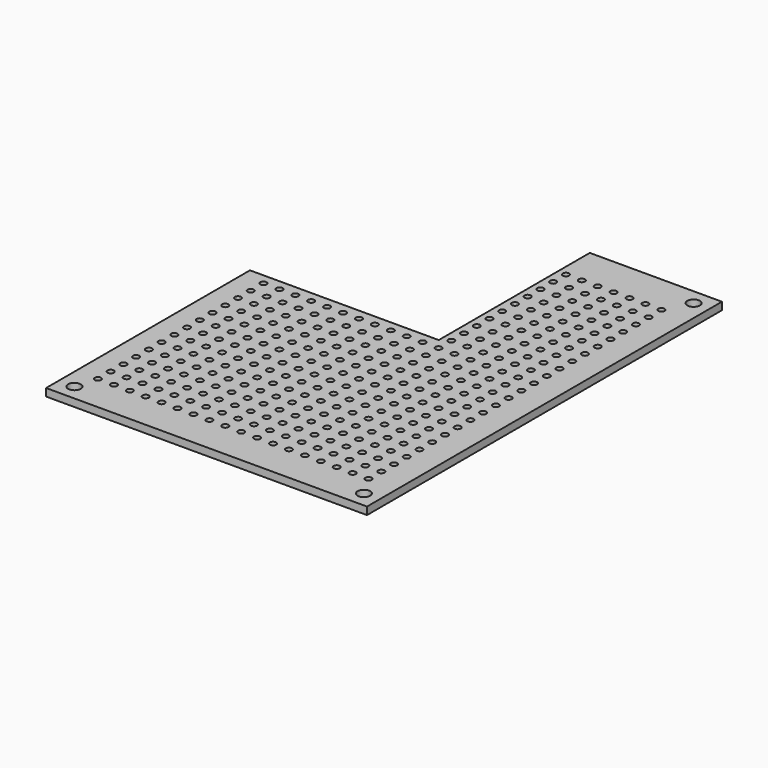
from build123d import *

# Parameters (mm, degrees)
F0_W     = 51
F0_H     = 70.5
F0_R     = 1
F1_DEPTH = 1.2
F2_R     = 0.5
F3_DEPTH = 25
F4_W     = 1.755817
F4_H     = 1.003323
F4_W_2   = 30
F4_H_2   = 30
F5_DEPTH = 5


with BuildPart() as f1:
    # F0 (on Top) → F1 (new body)
    with BuildSketch(Plane.XY):
        Rectangle(F0_W, F0_H)
        with Locations((-23, -32.75)):
            Circle(F0_R, mode=Mode.SUBTRACT)
        with Locations((23, -32.75)):
            Circle(F0_R, mode=Mode.SUBTRACT)
        with Locations((-23, 32.75)):
            Circle(F0_R, mode=Mode.SUBTRACT)
        with Locations((23, 32.75)):
            Circle(F0_R, mode=Mode.SUBTRACT)
    extrude(amount=F1_DEPTH)

    # F2 (on Top) → F3 (cut)
    with BuildSketch(Plane.XY):
        with Locations((-22, 28.85)):
            Circle(F2_R)
        with Locations((-19.470588, 28.85)):
            Circle(F2_R)
        with Locations((-16.941176, 28.85)):
            Circle(F2_R)
        with Locations((-14.411765, 28.85)):
            Circle(F2_R)
        with Locations((-11.882353, 28.85)):
            Circle(F2_R)
        with Locations((-9.352941, 28.85)):
            Circle(F2_R)
        with Locations((-6.823529, 28.85)):
            Circle(F2_R)
        with Locations((-4.294118, 28.85)):
            Circle(F2_R)
        with Locations((-1.764706, 28.85)):
            Circle(F2_R)
        with Locations((0.764706, 28.85)):
            Circle(F2_R)
        with Locations((3.294118, 28.85)):
            Circle(F2_R)
        with Locations((5.823529, 28.85)):
            Circle(F2_R)
        with Locations((8.352941, 28.85)):
            Circle(F2_R)
        with Locations((10.882353, 28.85)):
            Circle(F2_R)
        with Locations((13.411765, 28.85)):
            Circle(F2_R)
        with Locations((15.941176, 28.85)):
            Circle(F2_R)
        with Locations((18.470588, 28.85)):
            Circle(F2_R)
        with Locations((21, 28.85)):
            Circle(F2_R)
        with Locations((3.294112, 26.321)):
            Circle(F2_R)
        with Locations((5.823523, 26.321)):
            Circle(F2_R)
        with Locations((8.352935, 26.321)):
            Circle(F2_R)
        with Locations((18.470582, 26.321)):
            Circle(F2_R)
        with Locations((0.7647, 26.321)):
            Circle(F2_R)
        with Locations((10.882347, 26.321)):
            Circle(F2_R)
        with Locations((13.411759, 26.321)):
            Circle(F2_R)
        with Locations((15.941171, 26.321)):
            Circle(F2_R)
        with Locations((-16.941182, 26.321)):
            Circle(F2_R)
        with Locations((-14.411771, 26.321)):
            Circle(F2_R)
        with Locations((-11.882359, 26.321)):
            Circle(F2_R)
        with Locations((-9.352947, 26.321)):
            Circle(F2_R)
        with Locations((-6.823535, 26.321)):
            Circle(F2_R)
        with Locations((-4.294124, 26.321)):
            Circle(F2_R)
        with Locations((-1.764712, 26.321)):
            Circle(F2_R)
        with Locations((20.999994, 26.321)):
            Circle(F2_R)
        with Locations((-22.000006, 26.321)):
            Circle(F2_R)
        with Locations((-19.470594, 26.321)):
            Circle(F2_R)
        with Locations((3.294106, 23.792)):
            Circle(F2_R)
        with Locations((5.823517, 23.792)):
            Circle(F2_R)
        with Locations((8.352929, 23.792)):
            Circle(F2_R)
        with Locations((18.470576, 23.792)):
            Circle(F2_R)
        with Locations((0.764694, 23.792)):
            Circle(F2_R)
        with Locations((10.882341, 23.792)):
            Circle(F2_R)
        with Locations((13.411753, 23.792)):
            Circle(F2_R)
        with Locations((15.941165, 23.792)):
            Circle(F2_R)
        with Locations((-16.941188, 23.792)):
            Circle(F2_R)
        with Locations((-14.411777, 23.792)):
            Circle(F2_R)
        with Locations((-11.882365, 23.792)):
            Circle(F2_R)
        with Locations((-9.352953, 23.792)):
            Circle(F2_R)
        with Locations((-6.823541, 23.792)):
            Circle(F2_R)
        with Locations((-4.29413, 23.792)):
            Circle(F2_R)
        with Locations((-1.764718, 23.792)):
            Circle(F2_R)
        with Locations((20.999988, 23.792)):
            Circle(F2_R)
        with Locations((-22.000012, 23.792)):
            Circle(F2_R)
        with Locations((-19.4706, 23.792)):
            Circle(F2_R)
        with Locations((3.2941, 21.263)):
            Circle(F2_R)
        with Locations((5.823512, 21.263)):
            Circle(F2_R)
        with Locations((8.352923, 21.263)):
            Circle(F2_R)
        with Locations((18.47057, 21.263)):
            Circle(F2_R)
        with Locations((0.764688, 21.263)):
            Circle(F2_R)
        with Locations((10.882335, 21.263)):
            Circle(F2_R)
        with Locations((13.411747, 21.263)):
            Circle(F2_R)
        with Locations((15.941159, 21.263)):
            Circle(F2_R)
        with Locations((-16.941194, 21.263)):
            Circle(F2_R)
        with Locations((-14.411783, 21.263)):
            Circle(F2_R)
        with Locations((-11.882371, 21.263)):
            Circle(F2_R)
        with Locations((-9.352959, 21.263)):
            Circle(F2_R)
        with Locations((-6.823547, 21.263)):
            Circle(F2_R)
        with Locations((-4.294136, 21.263)):
            Circle(F2_R)
        with Locations((-1.764724, 21.263)):
            Circle(F2_R)
        with Locations((20.999982, 21.263)):
            Circle(F2_R)
        with Locations((-22.000018, 21.263)):
            Circle(F2_R)
        with Locations((-19.470606, 21.263)):
            Circle(F2_R)
        with Locations((3.294094, 18.734)):
            Circle(F2_R)
        with Locations((5.823506, 18.734)):
            Circle(F2_R)
        with Locations((8.352917, 18.734)):
            Circle(F2_R)
        with Locations((18.470564, 18.734)):
            Circle(F2_R)
        with Locations((0.764682, 18.734)):
            Circle(F2_R)
        with Locations((10.882329, 18.734)):
            Circle(F2_R)
        with Locations((13.411741, 18.734)):
            Circle(F2_R)
        with Locations((15.941153, 18.734)):
            Circle(F2_R)
        with Locations((-16.9412, 18.734)):
            Circle(F2_R)
        with Locations((-14.411789, 18.734)):
            Circle(F2_R)
        with Locations((-11.882377, 18.734)):
            Circle(F2_R)
        with Locations((-9.352965, 18.734)):
            Circle(F2_R)
        with Locations((-6.823553, 18.734)):
            Circle(F2_R)
        with Locations((-4.294142, 18.734)):
            Circle(F2_R)
        with Locations((-1.76473, 18.734)):
            Circle(F2_R)
        with Locations((20.999976, 18.734)):
            Circle(F2_R)
        with Locations((-22.000024, 18.734)):
            Circle(F2_R)
        with Locations((-19.470612, 18.734)):
            Circle(F2_R)
        with Locations((3.294088, 16.205)):
            Circle(F2_R)
        with Locations((5.8235, 16.205)):
            Circle(F2_R)
        with Locations((8.352911, 16.205)):
            Circle(F2_R)
        with Locations((18.470558, 16.205)):
            Circle(F2_R)
        with Locations((0.764676, 16.205)):
            Circle(F2_R)
        with Locations((10.882323, 16.205)):
            Circle(F2_R)
        with Locations((13.411735, 16.205)):
            Circle(F2_R)
        with Locations((15.941147, 16.205)):
            Circle(F2_R)
        with Locations((-16.941206, 16.205)):
            Circle(F2_R)
        with Locations((-14.411795, 16.205)):
            Circle(F2_R)
        with Locations((-11.882383, 16.205)):
            Circle(F2_R)
        with Locations((-9.352971, 16.205)):
            Circle(F2_R)
        with Locations((-6.823559, 16.205)):
            Circle(F2_R)
        with Locations((-4.294147, 16.205)):
            Circle(F2_R)
        with Locations((-1.764736, 16.205)):
            Circle(F2_R)
        with Locations((20.99997, 16.205)):
            Circle(F2_R)
        with Locations((-22.00003, 16.205)):
            Circle(F2_R)
        with Locations((-19.470618, 16.205)):
            Circle(F2_R)
        with Locations((3.294082, 13.676)):
            Circle(F2_R)
        with Locations((5.823494, 13.676)):
            Circle(F2_R)
        with Locations((8.352905, 13.676)):
            Circle(F2_R)
        with Locations((18.470552, 13.676)):
            Circle(F2_R)
        with Locations((0.76467, 13.676)):
            Circle(F2_R)
        with Locations((10.882317, 13.676)):
            Circle(F2_R)
        with Locations((13.411729, 13.676)):
            Circle(F2_R)
        with Locations((15.941141, 13.676)):
            Circle(F2_R)
        with Locations((-16.941212, 13.676)):
            Circle(F2_R)
        with Locations((-14.411801, 13.676)):
            Circle(F2_R)
        with Locations((-11.882389, 13.676)):
            Circle(F2_R)
        with Locations((-9.352977, 13.676)):
            Circle(F2_R)
        with Locations((-6.823565, 13.676)):
            Circle(F2_R)
        with Locations((-4.294153, 13.676)):
            Circle(F2_R)
        with Locations((-1.764742, 13.676)):
            Circle(F2_R)
        with Locations((20.999964, 13.676)):
            Circle(F2_R)
        with Locations((-22.000036, 13.676)):
            Circle(F2_R)
        with Locations((-19.470624, 13.676)):
            Circle(F2_R)
        with Locations((3.294076, 11.147)):
            Circle(F2_R)
        with Locations((5.823488, 11.147)):
            Circle(F2_R)
        with Locations((8.352899, 11.147)):
            Circle(F2_R)
        with Locations((18.470546, 11.147)):
            Circle(F2_R)
        with Locations((0.764664, 11.147)):
            Circle(F2_R)
        with Locations((10.882311, 11.147)):
            Circle(F2_R)
        with Locations((13.411723, 11.147)):
            Circle(F2_R)
        with Locations((15.941135, 11.147)):
            Circle(F2_R)
        with Locations((-16.941218, 11.147)):
            Circle(F2_R)
        with Locations((-14.411806, 11.147)):
            Circle(F2_R)
        with Locations((-11.882395, 11.147)):
            Circle(F2_R)
        with Locations((-9.352983, 11.147)):
            Circle(F2_R)
        with Locations((-6.823571, 11.147)):
            Circle(F2_R)
        with Locations((-4.294159, 11.147)):
            Circle(F2_R)
        with Locations((-1.764748, 11.147)):
            Circle(F2_R)
        with Locations((20.999958, 11.147)):
            Circle(F2_R)
        with Locations((-22.000042, 11.147)):
            Circle(F2_R)
        with Locations((-19.47063, 11.147)):
            Circle(F2_R)
        with Locations((3.29407, 8.618)):
            Circle(F2_R)
        with Locations((5.823482, 8.618)):
            Circle(F2_R)
        with Locations((8.352893, 8.618)):
            Circle(F2_R)
        with Locations((18.470541, 8.618)):
            Circle(F2_R)
        with Locations((0.764658, 8.618)):
            Circle(F2_R)
        with Locations((10.882305, 8.618)):
            Circle(F2_R)
        with Locations((13.411717, 8.618)):
            Circle(F2_R)
        with Locations((15.941129, 8.618)):
            Circle(F2_R)
        with Locations((-16.941224, 8.618)):
            Circle(F2_R)
        with Locations((-14.411812, 8.618)):
            Circle(F2_R)
        with Locations((-11.882401, 8.618)):
            Circle(F2_R)
        with Locations((-9.352989, 8.618)):
            Circle(F2_R)
        with Locations((-6.823577, 8.618)):
            Circle(F2_R)
        with Locations((-4.294165, 8.618)):
            Circle(F2_R)
        with Locations((-1.764754, 8.618)):
            Circle(F2_R)
        with Locations((20.999952, 8.618)):
            Circle(F2_R)
        with Locations((-22.000048, 8.618)):
            Circle(F2_R)
        with Locations((-19.470636, 8.618)):
            Circle(F2_R)
        with Locations((3.294064, 6.089)):
            Circle(F2_R)
        with Locations((5.823476, 6.089)):
            Circle(F2_R)
        with Locations((8.352887, 6.089)):
            Circle(F2_R)
        with Locations((18.470535, 6.089)):
            Circle(F2_R)
        with Locations((0.764652, 6.089)):
            Circle(F2_R)
        with Locations((10.882299, 6.089)):
            Circle(F2_R)
        with Locations((13.411711, 6.089)):
            Circle(F2_R)
        with Locations((15.941123, 6.089)):
            Circle(F2_R)
        with Locations((-16.94123, 6.089)):
            Circle(F2_R)
        with Locations((-14.411818, 6.089)):
            Circle(F2_R)
        with Locations((-11.882407, 6.089)):
            Circle(F2_R)
        with Locations((-9.352995, 6.089)):
            Circle(F2_R)
        with Locations((-6.823583, 6.089)):
            Circle(F2_R)
        with Locations((-4.294171, 6.089)):
            Circle(F2_R)
        with Locations((-1.76476, 6.089)):
            Circle(F2_R)
        with Locations((20.999946, 6.089)):
            Circle(F2_R)
        with Locations((-22.000054, 6.089)):
            Circle(F2_R)
        with Locations((-19.470642, 6.089)):
            Circle(F2_R)
        with Locations((3.294058, 3.56)):
            Circle(F2_R)
        with Locations((5.82347, 3.56)):
            Circle(F2_R)
        with Locations((8.352882, 3.56)):
            Circle(F2_R)
        with Locations((18.470529, 3.56)):
            Circle(F2_R)
        with Locations((0.764646, 3.56)):
            Circle(F2_R)
        with Locations((10.882293, 3.56)):
            Circle(F2_R)
        with Locations((13.411705, 3.56)):
            Circle(F2_R)
        with Locations((15.941117, 3.56)):
            Circle(F2_R)
        with Locations((-16.941236, 3.56)):
            Circle(F2_R)
        with Locations((-14.411824, 3.56)):
            Circle(F2_R)
        with Locations((-11.882413, 3.56)):
            Circle(F2_R)
        with Locations((-9.353001, 3.56)):
            Circle(F2_R)
        with Locations((-6.823589, 3.56)):
            Circle(F2_R)
        with Locations((-4.294177, 3.56)):
            Circle(F2_R)
        with Locations((-1.764766, 3.56)):
            Circle(F2_R)
        with Locations((20.99994, 3.56)):
            Circle(F2_R)
        with Locations((-22.00006, 3.56)):
            Circle(F2_R)
        with Locations((-19.470648, 3.56)):
            Circle(F2_R)
        with Locations((3.294052, 1.031)):
            Circle(F2_R)
        with Locations((5.823464, 1.031)):
            Circle(F2_R)
        with Locations((8.352876, 1.031)):
            Circle(F2_R)
        with Locations((18.470523, 1.031)):
            Circle(F2_R)
        with Locations((0.76464, 1.031)):
            Circle(F2_R)
        with Locations((10.882287, 1.031)):
            Circle(F2_R)
        with Locations((13.411699, 1.031)):
            Circle(F2_R)
        with Locations((15.941111, 1.031)):
            Circle(F2_R)
        with Locations((-16.941242, 1.031)):
            Circle(F2_R)
        with Locations((-14.41183, 1.031)):
            Circle(F2_R)
        with Locations((-11.882419, 1.031)):
            Circle(F2_R)
        with Locations((-9.353007, 1.031)):
            Circle(F2_R)
        with Locations((-6.823595, 1.031)):
            Circle(F2_R)
        with Locations((-4.294183, 1.031)):
            Circle(F2_R)
        with Locations((-1.764772, 1.031)):
            Circle(F2_R)
        with Locations((20.999934, 1.031)):
            Circle(F2_R)
        with Locations((-22.000066, 1.031)):
            Circle(F2_R)
        with Locations((-19.470654, 1.031)):
            Circle(F2_R)
        with Locations((3.294046, -1.498)):
            Circle(F2_R)
        with Locations((5.823458, -1.498)):
            Circle(F2_R)
        with Locations((8.35287, -1.498)):
            Circle(F2_R)
        with Locations((18.470517, -1.498)):
            Circle(F2_R)
        with Locations((0.764634, -1.498)):
            Circle(F2_R)
        with Locations((10.882281, -1.498)):
            Circle(F2_R)
        with Locations((13.411693, -1.498)):
            Circle(F2_R)
        with Locations((15.941105, -1.498)):
            Circle(F2_R)
        with Locations((-16.941248, -1.498)):
            Circle(F2_R)
        with Locations((-14.411836, -1.498)):
            Circle(F2_R)
        with Locations((-11.882425, -1.498)):
            Circle(F2_R)
        with Locations((-9.353013, -1.498)):
            Circle(F2_R)
        with Locations((-6.823601, -1.498)):
            Circle(F2_R)
        with Locations((-4.294189, -1.498)):
            Circle(F2_R)
        with Locations((-1.764777, -1.498)):
            Circle(F2_R)
        with Locations((20.999928, -1.498)):
            Circle(F2_R)
        with Locations((-22.000072, -1.498)):
            Circle(F2_R)
        with Locations((-19.47066, -1.498)):
            Circle(F2_R)
        with Locations((3.29404, -4.027)):
            Circle(F2_R)
        with Locations((5.823452, -4.027)):
            Circle(F2_R)
        with Locations((8.352864, -4.027)):
            Circle(F2_R)
        with Locations((18.470511, -4.027)):
            Circle(F2_R)
        with Locations((0.764628, -4.027)):
            Circle(F2_R)
        with Locations((10.882275, -4.027)):
            Circle(F2_R)
        with Locations((13.411687, -4.027)):
            Circle(F2_R)
        with Locations((15.941099, -4.027)):
            Circle(F2_R)
        with Locations((-16.941254, -4.027)):
            Circle(F2_R)
        with Locations((-14.411842, -4.027)):
            Circle(F2_R)
        with Locations((-11.88243, -4.027)):
            Circle(F2_R)
        with Locations((-9.353019, -4.027)):
            Circle(F2_R)
        with Locations((-6.823607, -4.027)):
            Circle(F2_R)
        with Locations((-4.294195, -4.027)):
            Circle(F2_R)
        with Locations((-1.764783, -4.027)):
            Circle(F2_R)
        with Locations((20.999922, -4.027)):
            Circle(F2_R)
        with Locations((-22.000078, -4.027)):
            Circle(F2_R)
        with Locations((-19.470666, -4.027)):
            Circle(F2_R)
        with Locations((3.294034, -6.556)):
            Circle(F2_R)
        with Locations((5.823446, -6.556)):
            Circle(F2_R)
        with Locations((8.352858, -6.556)):
            Circle(F2_R)
        with Locations((18.470505, -6.556)):
            Circle(F2_R)
        with Locations((0.764622, -6.556)):
            Circle(F2_R)
        with Locations((10.882269, -6.556)):
            Circle(F2_R)
        with Locations((13.411681, -6.556)):
            Circle(F2_R)
        with Locations((15.941093, -6.556)):
            Circle(F2_R)
        with Locations((-16.94126, -6.556)):
            Circle(F2_R)
        with Locations((-14.411848, -6.556)):
            Circle(F2_R)
        with Locations((-11.882436, -6.556)):
            Circle(F2_R)
        with Locations((-9.353025, -6.556)):
            Circle(F2_R)
        with Locations((-6.823613, -6.556)):
            Circle(F2_R)
        with Locations((-4.294201, -6.556)):
            Circle(F2_R)
        with Locations((-1.764789, -6.556)):
            Circle(F2_R)
        with Locations((20.999916, -6.556)):
            Circle(F2_R)
        with Locations((-22.000084, -6.556)):
            Circle(F2_R)
        with Locations((-19.470672, -6.556)):
            Circle(F2_R)
        with Locations((3.294028, -9.085)):
            Circle(F2_R)
        with Locations((5.82344, -9.085)):
            Circle(F2_R)
        with Locations((8.352852, -9.085)):
            Circle(F2_R)
        with Locations((18.470499, -9.085)):
            Circle(F2_R)
        with Locations((0.764616, -9.085)):
            Circle(F2_R)
        with Locations((10.882263, -9.085)):
            Circle(F2_R)
        with Locations((13.411675, -9.085)):
            Circle(F2_R)
        with Locations((15.941087, -9.085)):
            Circle(F2_R)
        with Locations((-16.941266, -9.085)):
            Circle(F2_R)
        with Locations((-14.411854, -9.085)):
            Circle(F2_R)
        with Locations((-11.882442, -9.085)):
            Circle(F2_R)
        with Locations((-9.353031, -9.085)):
            Circle(F2_R)
        with Locations((-6.823619, -9.085)):
            Circle(F2_R)
        with Locations((-4.294207, -9.085)):
            Circle(F2_R)
        with Locations((-1.764795, -9.085)):
            Circle(F2_R)
        with Locations((20.999911, -9.085)):
            Circle(F2_R)
        with Locations((-22.000089, -9.085)):
            Circle(F2_R)
        with Locations((-19.470678, -9.085)):
            Circle(F2_R)
        with Locations((3.294022, -11.614)):
            Circle(F2_R)
        with Locations((5.823434, -11.614)):
            Circle(F2_R)
        with Locations((8.352846, -11.614)):
            Circle(F2_R)
        with Locations((18.470493, -11.614)):
            Circle(F2_R)
        with Locations((0.76461, -11.614)):
            Circle(F2_R)
        with Locations((10.882257, -11.614)):
            Circle(F2_R)
        with Locations((13.411669, -11.614)):
            Circle(F2_R)
        with Locations((15.941081, -11.614)):
            Circle(F2_R)
        with Locations((-16.941272, -11.614)):
            Circle(F2_R)
        with Locations((-14.41186, -11.614)):
            Circle(F2_R)
        with Locations((-11.882448, -11.614)):
            Circle(F2_R)
        with Locations((-9.353037, -11.614)):
            Circle(F2_R)
        with Locations((-6.823625, -11.614)):
            Circle(F2_R)
        with Locations((-4.294213, -11.614)):
            Circle(F2_R)
        with Locations((-1.764801, -11.614)):
            Circle(F2_R)
        with Locations((20.999905, -11.614)):
            Circle(F2_R)
        with Locations((-22.000095, -11.614)):
            Circle(F2_R)
        with Locations((-19.470684, -11.614)):
            Circle(F2_R)
        with Locations((3.294016, -14.143)):
            Circle(F2_R)
        with Locations((5.823428, -14.143)):
            Circle(F2_R)
        with Locations((8.35284, -14.143)):
            Circle(F2_R)
        with Locations((18.470487, -14.143)):
            Circle(F2_R)
        with Locations((0.764604, -14.143)):
            Circle(F2_R)
        with Locations((10.882252, -14.143)):
            Circle(F2_R)
        with Locations((13.411663, -14.143)):
            Circle(F2_R)
        with Locations((15.941075, -14.143)):
            Circle(F2_R)
        with Locations((-16.941278, -14.143)):
            Circle(F2_R)
        with Locations((-14.411866, -14.143)):
            Circle(F2_R)
        with Locations((-11.882454, -14.143)):
            Circle(F2_R)
        with Locations((-9.353043, -14.143)):
            Circle(F2_R)
        with Locations((-6.823631, -14.143)):
            Circle(F2_R)
        with Locations((-4.294219, -14.143)):
            Circle(F2_R)
        with Locations((-1.764807, -14.143)):
            Circle(F2_R)
        with Locations((20.999899, -14.143)):
            Circle(F2_R)
        with Locations((-22.000101, -14.143)):
            Circle(F2_R)
        with Locations((-19.47069, -14.143)):
            Circle(F2_R)
        with Locations((3.29401, -16.672)):
            Circle(F2_R)
        with Locations((5.823422, -16.672)):
            Circle(F2_R)
        with Locations((8.352834, -16.672)):
            Circle(F2_R)
        with Locations((18.470481, -16.672)):
            Circle(F2_R)
        with Locations((0.764598, -16.672)):
            Circle(F2_R)
        with Locations((10.882246, -16.672)):
            Circle(F2_R)
        with Locations((13.411657, -16.672)):
            Circle(F2_R)
        with Locations((15.941069, -16.672)):
            Circle(F2_R)
        with Locations((-16.941284, -16.672)):
            Circle(F2_R)
        with Locations((-14.411872, -16.672)):
            Circle(F2_R)
        with Locations((-11.88246, -16.672)):
            Circle(F2_R)
        with Locations((-9.353049, -16.672)):
            Circle(F2_R)
        with Locations((-6.823637, -16.672)):
            Circle(F2_R)
        with Locations((-4.294225, -16.672)):
            Circle(F2_R)
        with Locations((-1.764813, -16.672)):
            Circle(F2_R)
        with Locations((20.999893, -16.672)):
            Circle(F2_R)
        with Locations((-22.000107, -16.672)):
            Circle(F2_R)
        with Locations((-19.470696, -16.672)):
            Circle(F2_R)
        with Locations((3.294004, -19.201)):
            Circle(F2_R)
        with Locations((5.823416, -19.201)):
            Circle(F2_R)
        with Locations((8.352828, -19.201)):
            Circle(F2_R)
        with Locations((18.470475, -19.201)):
            Circle(F2_R)
        with Locations((0.764593, -19.201)):
            Circle(F2_R)
        with Locations((10.88224, -19.201)):
            Circle(F2_R)
        with Locations((13.411651, -19.201)):
            Circle(F2_R)
        with Locations((15.941063, -19.201)):
            Circle(F2_R)
        with Locations((-16.94129, -19.201)):
            Circle(F2_R)
        with Locations((-14.411878, -19.201)):
            Circle(F2_R)
        with Locations((-11.882466, -19.201)):
            Circle(F2_R)
        with Locations((-9.353055, -19.201)):
            Circle(F2_R)
        with Locations((-6.823643, -19.201)):
            Circle(F2_R)
        with Locations((-4.294231, -19.201)):
            Circle(F2_R)
        with Locations((-1.764819, -19.201)):
            Circle(F2_R)
        with Locations((20.999887, -19.201)):
            Circle(F2_R)
        with Locations((-22.000113, -19.201)):
            Circle(F2_R)
        with Locations((-19.470702, -19.201)):
            Circle(F2_R)
        with Locations((3.293998, -21.73)):
            Circle(F2_R)
        with Locations((5.82341, -21.73)):
            Circle(F2_R)
        with Locations((8.352822, -21.73)):
            Circle(F2_R)
        with Locations((18.470469, -21.73)):
            Circle(F2_R)
        with Locations((0.764587, -21.73)):
            Circle(F2_R)
        with Locations((10.882234, -21.73)):
            Circle(F2_R)
        with Locations((13.411645, -21.73)):
            Circle(F2_R)
        with Locations((15.941057, -21.73)):
            Circle(F2_R)
        with Locations((-16.941296, -21.73)):
            Circle(F2_R)
        with Locations((-14.411884, -21.73)):
            Circle(F2_R)
        with Locations((-11.882472, -21.73)):
            Circle(F2_R)
        with Locations((-9.35306, -21.73)):
            Circle(F2_R)
        with Locations((-6.823649, -21.73)):
            Circle(F2_R)
        with Locations((-4.294237, -21.73)):
            Circle(F2_R)
        with Locations((-1.764825, -21.73)):
            Circle(F2_R)
        with Locations((20.999881, -21.73)):
            Circle(F2_R)
        with Locations((-22.000119, -21.73)):
            Circle(F2_R)
        with Locations((-19.470708, -21.73)):
            Circle(F2_R)
        with Locations((3.293992, -24.259)):
            Circle(F2_R)
        with Locations((5.823404, -24.259)):
            Circle(F2_R)
        with Locations((8.352816, -24.259)):
            Circle(F2_R)
        with Locations((18.470463, -24.259)):
            Circle(F2_R)
        with Locations((0.764581, -24.259)):
            Circle(F2_R)
        with Locations((10.882228, -24.259)):
            Circle(F2_R)
        with Locations((13.411639, -24.259)):
            Circle(F2_R)
        with Locations((15.941051, -24.259)):
            Circle(F2_R)
        with Locations((-16.941302, -24.259)):
            Circle(F2_R)
        with Locations((-14.41189, -24.259)):
            Circle(F2_R)
        with Locations((-11.882478, -24.259)):
            Circle(F2_R)
        with Locations((-9.353066, -24.259)):
            Circle(F2_R)
        with Locations((-6.823655, -24.259)):
            Circle(F2_R)
        with Locations((-4.294243, -24.259)):
            Circle(F2_R)
        with Locations((-1.764831, -24.259)):
            Circle(F2_R)
        with Locations((20.999875, -24.259)):
            Circle(F2_R)
        with Locations((-22.000125, -24.259)):
            Circle(F2_R)
        with Locations((-19.470714, -24.259)):
            Circle(F2_R)
        with Locations((3.293986, -26.788)):
            Circle(F2_R)
        with Locations((5.823398, -26.788)):
            Circle(F2_R)
        with Locations((8.35281, -26.788)):
            Circle(F2_R)
        with Locations((18.470457, -26.788)):
            Circle(F2_R)
        with Locations((0.764575, -26.788)):
            Circle(F2_R)
        with Locations((10.882222, -26.788)):
            Circle(F2_R)
        with Locations((13.411633, -26.788)):
            Circle(F2_R)
        with Locations((15.941045, -26.788)):
            Circle(F2_R)
        with Locations((-16.941308, -26.788)):
            Circle(F2_R)
        with Locations((-14.411896, -26.788)):
            Circle(F2_R)
        with Locations((-11.882484, -26.788)):
            Circle(F2_R)
        with Locations((-9.353072, -26.788)):
            Circle(F2_R)
        with Locations((-6.823661, -26.788)):
            Circle(F2_R)
        with Locations((-4.294249, -26.788)):
            Circle(F2_R)
        with Locations((-1.764837, -26.788)):
            Circle(F2_R)
        with Locations((20.999869, -26.788)):
            Circle(F2_R)
        with Locations((-22.000131, -26.788)):
            Circle(F2_R)
        with Locations((-19.470719, -26.788)):
            Circle(F2_R)
        with Locations((3.29398, -29.317)):
            Circle(F2_R)
        with Locations((5.823392, -29.317)):
            Circle(F2_R)
        with Locations((8.352804, -29.317)):
            Circle(F2_R)
        with Locations((18.470451, -29.317)):
            Circle(F2_R)
        with Locations((0.764569, -29.317)):
            Circle(F2_R)
        with Locations((10.882216, -29.317)):
            Circle(F2_R)
        with Locations((13.411627, -29.317)):
            Circle(F2_R)
        with Locations((15.941039, -29.317)):
            Circle(F2_R)
        with Locations((-16.941314, -29.317)):
            Circle(F2_R)
        with Locations((-14.411902, -29.317)):
            Circle(F2_R)
        with Locations((-11.88249, -29.317)):
            Circle(F2_R)
        with Locations((-9.353078, -29.317)):
            Circle(F2_R)
        with Locations((-6.823667, -29.317)):
            Circle(F2_R)
        with Locations((-4.294255, -29.317)):
            Circle(F2_R)
        with Locations((-1.764843, -29.317)):
            Circle(F2_R)
        with Locations((20.999863, -29.317)):
            Circle(F2_R)
        with Locations((-22.000137, -29.317)):
            Circle(F2_R)
        with Locations((-19.470725, -29.317)):
            Circle(F2_R)
    extrude(amount=F3_DEPTH, mode=Mode.SUBTRACT)

    # F4 (on face) → F5 (cut)
    with BuildSketch(Plane.XY.offset(1.2)):
        with Locations((39.574483, 45.803634)):
            Rectangle(F4_W, F4_H)
        with Locations((-10.5, 20.25)):
            Rectangle(F4_W_2, F4_H_2)
    extrude(amount=-F5_DEPTH, mode=Mode.SUBTRACT)


solid = f1.part
